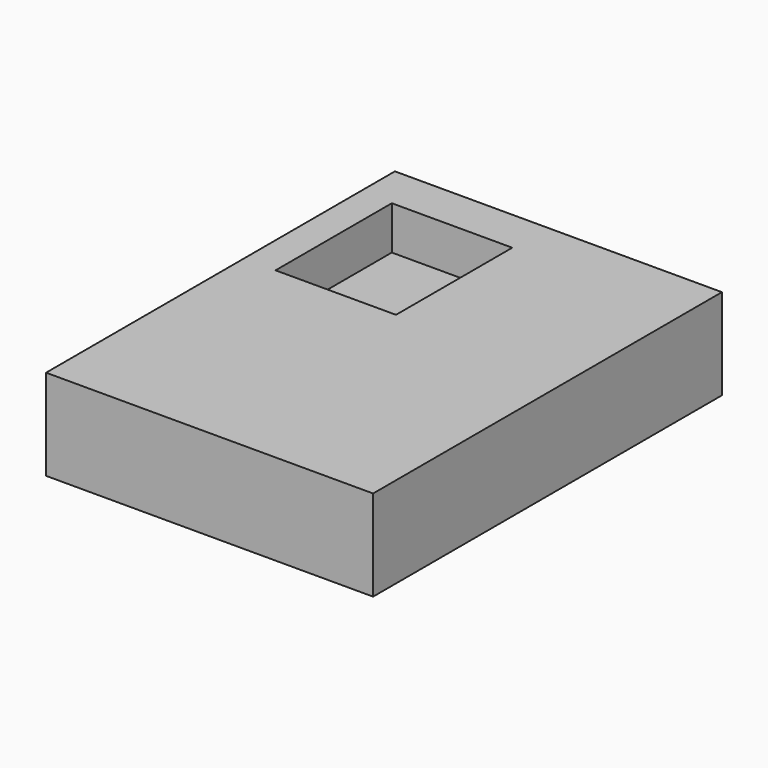
from build123d import *

# Parameters (mm, degrees)
F0_W     = 168.402
F0_H     = 203.2
F2_W     = 168.402
F2_H     = 203.2
F3_DEPTH = 66.294
F0_W_2   = 457.2
F0_H_2   = 609.6
F4_DEPTH = 127


with BuildPart() as f3:
    # F0 (on Top) + F2 (on offset) → F3 (new body)
    with BuildSketch(Plane.XY):
        with Locations((-112.142869, 160.20874)):
            Rectangle(F0_W, F0_H)
    with BuildSketch(Plane.XY.offset(41.656)):
        with Locations((87.755131, -124.27126)):
            Rectangle(F2_W, F2_H)
    extrude(amount=F3_DEPTH)


with BuildPart() as f4:
    # F0 (on Top) → F4 (new body)
    with BuildSketch(Plane.XY):
        with Locations((-12.193869, 17.96874)):
            Rectangle(F0_W_2, F0_H_2)
        with Locations((-112.142869, 160.20874)):
            Rectangle(F0_W, F0_H, mode=Mode.SUBTRACT)
    extrude(amount=F4_DEPTH)


solid = Compound([f3.part, f4.part])
